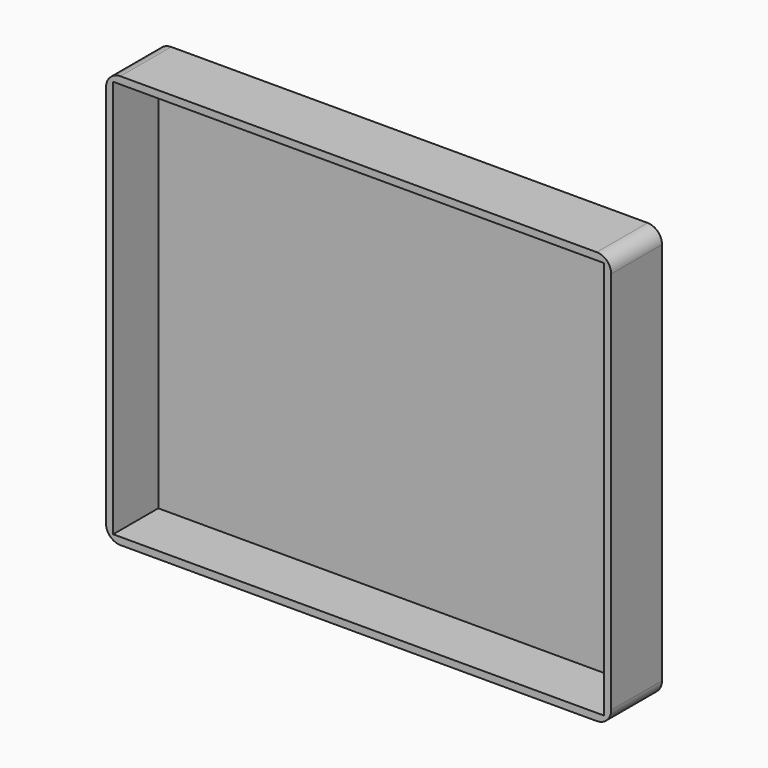
from build123d import *

# Parameters (mm, degrees)
F0_W     = 175
F0_H     = 143
F1_DEPTH = 22
F2_T     = -2.5
F3_R     = 5


with BuildPart() as f1:
    # F0 (on Front) → F1 (new body)
    with BuildSketch(Plane.XZ):
        Rectangle(F0_W, F0_H)
    extrude(amount=F1_DEPTH)

    # F2
    f2_openings = [f1.faces().sort_by_distance(p)[0] for p in [
        (0, -22, 0),
    ]]
    offset(amount=F2_T, openings=f2_openings)

    # F3
    f3_edges = [f1.edges().sort_by_distance(p)[0] for p in [
        (-87.5, -11, 71.5),
        (-87.5, -11, -71.5),
        (87.5, -11, 71.5),
        (87.5, -11, -71.5),
    ]]
    fillet(f3_edges, radius=F3_R)


solid = f1.part
